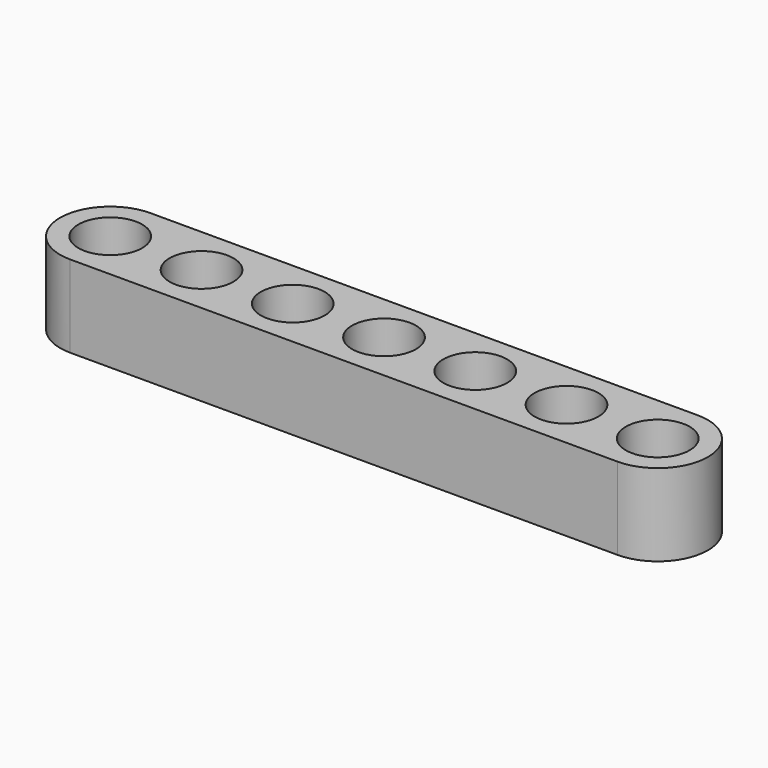
from build123d import *

# Parameters (mm, degrees)
PAD_DEPTH           = 4.5
SKETCH001_R         = 1.75
POCKET_DEPTH        = 4.501
LINEARPATTERN_COUNT = 7
LINEARPATTERN_PITCH = 5


with BuildPart() as part:
    # Sketch → Pad (new body)
    with BuildSketch(Plane.XY):
        with BuildLine():
            ThreePointArc((1.4e-05, 2.75), (-2.75, 7e-06), (0, -2.75))
            Line((0, -2.75), (30, -2.75))
            ThreePointArc((30, -2.75), (32.75, -7e-06), (30.000014, 2.75))
            Line((1.4e-05, 2.75), (30.000014, 2.75))
        make_face()
    extrude(amount=PAD_DEPTH)

    # Sketch001 → Pocket (cut, through all)
    with BuildSketch(Plane.XY.offset(4.5)):
        Circle(SKETCH001_R)
    pocket = extrude(amount=-POCKET_DEPTH, mode=Mode.SUBTRACT)

    # LinearPattern: Pocket ×7
    with Locations(*[(i * LINEARPATTERN_PITCH, 0, 0) for i in range(1, LINEARPATTERN_COUNT)]):
        add(pocket, mode=Mode.SUBTRACT)


solid = part.part
